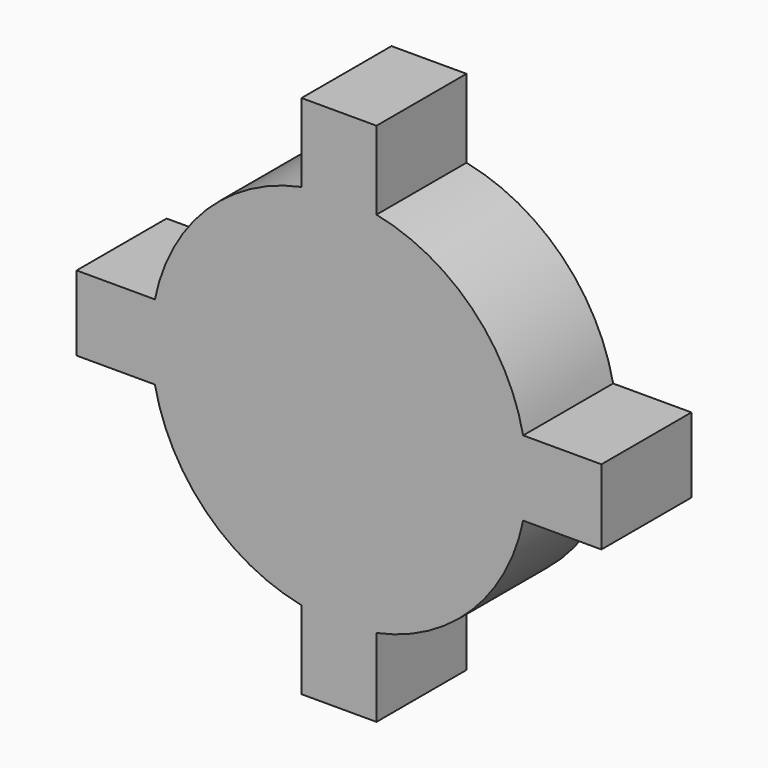
from build123d import *

# Parameters (mm, degrees)
F0_R     = 40
F1_DEPTH = 30


with BuildPart() as f1:
    # F0 (on Front) → F1 (new body)
    with BuildSketch(Plane.XZ):
        with BuildLine():
            Line((70, 10), (49.114953, 10))
            ThreePointArc((49.114953, 10), (49.870079, 5.025321), (50.122636, 0))
            ThreePointArc((50.122636, 0), (49.870079, -5.025321), (49.114953, -10))
            Line((49.114953, -10), (70, -10))
            Line((70, -10), (70, 10))
        make_face()
        with BuildLine():
            ThreePointArc((10, 49.114953), (0, 50.122636), (-10, 49.114953))
            ThreePointArc((-10, 49.114953), (-35.442056, 35.442056), (-49.114953, 10))
            ThreePointArc((-49.114953, 10), (-50.122636, 0), (-49.114953, -10))
            ThreePointArc((-49.114953, -10), (-35.442056, -35.442056), (-10, -49.114953))
            ThreePointArc((-10, -49.114953), (0, -50.122636), (10, -49.114953))
            ThreePointArc((10, -49.114953), (35.442056, -35.442056), (49.114953, -10))
            ThreePointArc((49.114953, -10), (49.870079, -5.025321), (50.122636, 0))
            ThreePointArc((50.122636, 0), (49.870079, 5.025321), (49.114953, 10))
            ThreePointArc((49.114953, 10), (35.442056, 35.442056), (10, 49.114953))
        make_face()
        Circle(F0_R, mode=Mode.SUBTRACT)
        with BuildLine():
            ThreePointArc((-49.114953, -10), (-50.122636, 0), (-49.114953, 10))
            Line((-49.114953, 10), (-70, 10))
            Line((-70, 10), (-70, -10))
            Line((-70, -10), (-49.114953, -10))
        make_face()
        with BuildLine():
            ThreePointArc((10, -49.114953), (0, -50.122636), (-10, -49.114953))
            Line((-10, -49.114953), (-10, -70))
            Line((-10, -70), (10, -70))
            Line((10, -70), (10, -49.114953))
        make_face()
        with BuildLine():
            Line((-5.95824, 70), (-10, 70))
            Line((-10, 70), (-10, 49.114953))
            ThreePointArc((-10, 49.114953), (0, 50.122636), (10, 49.114953))
            Line((10, 49.114953), (10, 70))
            Line((10, 70), (5.95824, 70))
            Line((5.95824, 70), (-5.95824, 70))
        make_face()
        Circle(F0_R)
    extrude(amount=F1_DEPTH)


solid = f1.part
